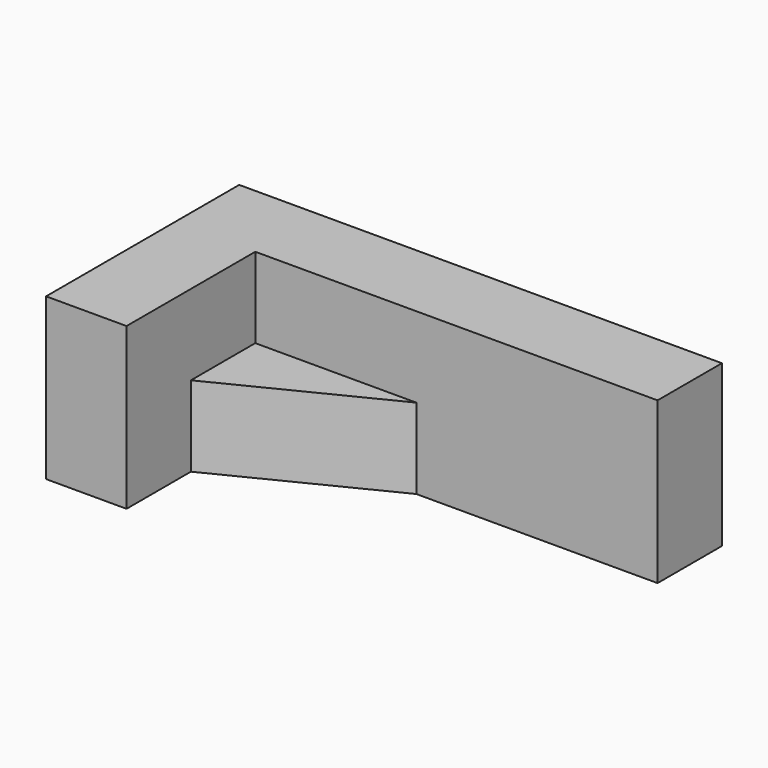
from build123d import *

# Parameters (mm, degrees)
F1_DEPTH = 50.8
F3_DEPTH = 25.4


with BuildPart() as f1:
    # F0 (on Top) → F1 (new body)
    with BuildSketch(Plane.XY):
        Polygon((0, 76.2), (0, 0), (25.4, 0), (25.4, 25.4), (25.4, 50.8), (76.241754, 50.8), (152.4, 50.8), (152.4, 76.2), align=None)
        Polygon((25.4, 50.8), (25.4, 25.4), (76.241754, 50.8), align=None)
    extrude(amount=-F1_DEPTH)

    # F2 (on face) → F3 (cut)
    with BuildSketch(Plane.XY):
        Polygon((25.4, 50.8), (25.4, 25.4), (76.241754, 50.8), align=None)
    extrude(amount=-F3_DEPTH, mode=Mode.SUBTRACT)


solid = f1.part
